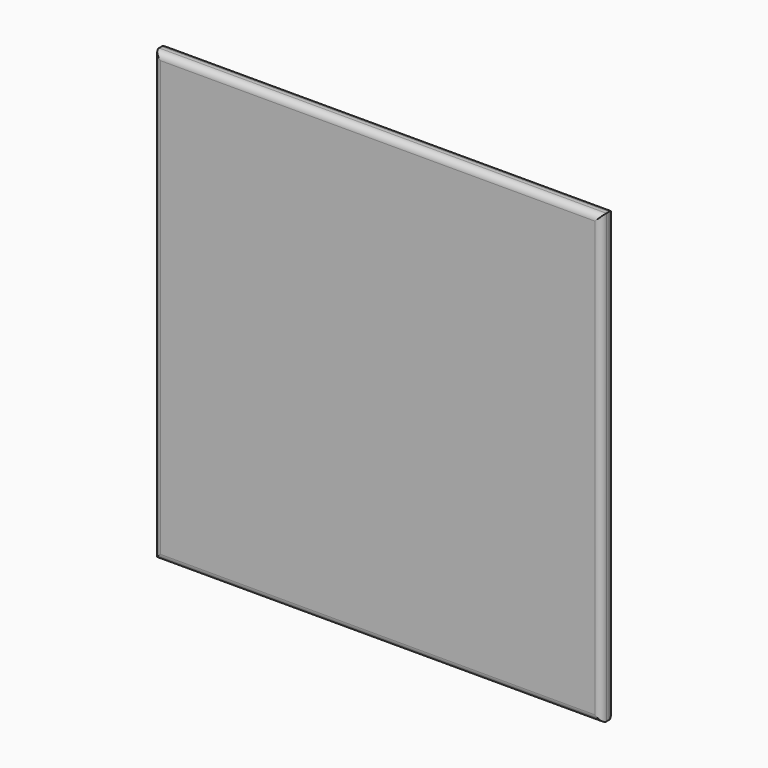
from build123d import *

# Parameters (mm, degrees)
F0_W     = 355.6
F0_H     = 355.6
F1_DEPTH = 12.7
F2_R     = 5.08


with BuildPart() as f1:
    # F0 (on Front) → F1 (new body)
    with BuildSketch(Plane.XZ):
        Rectangle(F0_W, F0_H)
        Rectangle(F0_W, F0_H)
    extrude(amount=F1_DEPTH)

    # F2
    f2_edges = [f1.edges().sort_by_distance(p)[0] for p in [
        (177.8, -12.7, 0),
        (0, -12.7, 177.8),
        (-177.8, -12.7, 0),
        (0, -12.7, -177.8),
        (177.8, 0, 0),
        (0, 0, 177.8),
        (-177.8, 0, 0),
        (0, 0, -177.8),
    ]]
    fillet(f2_edges, radius=F2_R)


solid = f1.part
